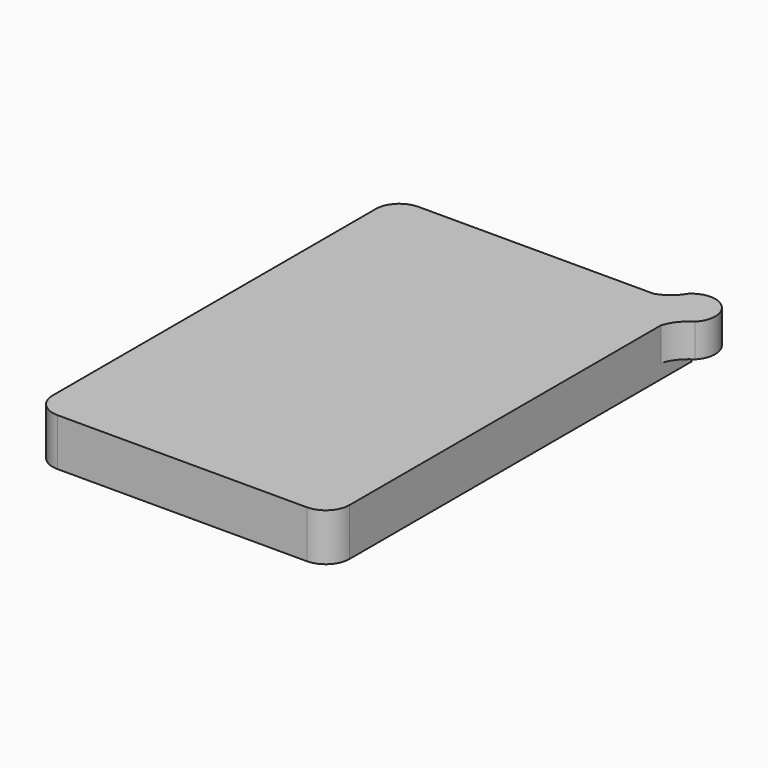
from build123d import *

# Parameters (mm, degrees)
SKETCH_W     = 62.5
SKETCH_H     = 95
PAD_DEPTH    = 10
PAD001_DEPTH = 7
POCKET_DEPTH = 3
SKETCH003_W  = 2
SKETCH003_H  = 21
PAD002_DEPTH = 4.8
FILLET_R     = 5


with BuildPart() as part:
    # Sketch → Pad (new body)
    with BuildSketch(Plane.XY):
        with Locations((31.25, -47.5)):
            Rectangle(SKETCH_W, SKETCH_H)
    extrude(amount=PAD_DEPTH)

    # Sketch001 (on Face6 of Pad) → Pad001 (join)
    with BuildSketch(Plane.XY.offset(10)):
        with BuildLine():
            ThreePointArc((66.035523, -3.535545), (66.035539, 3.535528), (58.964466, 3.535534))
            ThreePointArc((54.5, 0), (57.061192, 1.352376), (58.964466, 3.535534))
            Line((54.5, 0), (62.5, -8))
            ThreePointArc((66.035523, -3.535545), (63.868245, -5.451384), (62.5, -8))
        make_face()
    extrude(amount=-PAD001_DEPTH)

    # Sketch002 (on Face2 of Pad001) → Pocket (cut)
    with BuildSketch(Plane(origin=(0, 0, 0), x_dir=(1, 0, 0), z_dir=(0, 0, -1))):
        with BuildLine():
            Line((54.5, 0), (62.5, 0))
            Line((62.5, 0), (62.5, 8))
            ThreePointArc((62.5, 8), (63.868245, 5.451384), (66.035523, 3.535545))
            ThreePointArc((58.964466, -3.535534), (66.035539, -3.535528), (66.035523, 3.535545))
            ThreePointArc((58.964466, -3.535534), (57.061192, -1.352376), (54.5, 0))
        make_face()
    extrude(amount=-POCKET_DEPTH, mode=Mode.SUBTRACT)

    # Sketch003 (on Face3 of Pocket) → Pad002 (join)
    with BuildSketch(Plane(origin=(0, 0, 0), x_dir=(1, 0, 0), z_dir=(0, 0, -1))):
        with Locations((10, 56)):
            Rectangle(SKETCH003_W, SKETCH003_H)
    extrude(amount=PAD002_DEPTH)

    # Fillet
    fillet_edges = [part.edges().sort_by_distance(p)[0] for p in [
        (0, 0, 5),
        (0, -95, 5),
        (62.5, -95, 5),
    ]]
    fillet(fillet_edges, radius=FILLET_R)


solid = part.part
